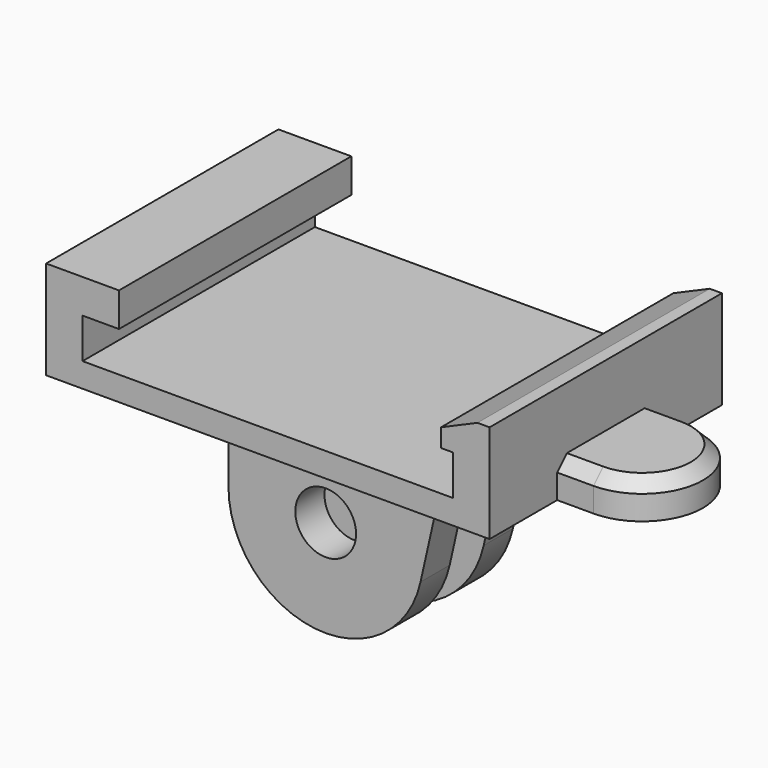
from build123d import *

# Parameters (mm, degrees)
F1_DEPTH = 11.95
F2_R     = 2.5
F3_DEPTH = 4.75
F4_W     = 3.5
F4_H     = 22
F5_DEPTH = 12.5
F6_W     = 3
F6_H     = 10
F7_DEPTH = 3
F8_SIZE  = 1


with BuildPart() as f1:
    # F0 (on Front) → F1 (new body, symmetric)
    with BuildSketch(Plane.XZ):
        Polygon((-15.25, 1.65), (-12.25, 1.65), (-12.25, 4.45), (-18.25, 4.45), (-18.25, -3.65), (18.25, -3.65), (18.25, 4.45), (17.25, 4.45), (14.25, 3.15), (14.25, 1.65), (15.25, 1.65), (15.25, -1.65), (-15.25, -1.65), align=None)
    extrude(amount=F1_DEPTH, both=True)

    # F2 (on Front) → F3 (join, symmetric)
    with BuildSketch(Plane.XZ):
        with BuildLine():
            Line((-9, -3.65), (-9, -11.65))
            ThreePointArc((-9, -11.65), (-1.883452, -19.60107), (6.804878, -13.406098))
            Line((6.804878, -13.406098), (9, -3.65))
            Line((9, -3.65), (-9, -3.65))
        make_face()
        with Locations((-1, -11.65)):
            Circle(F2_R, mode=Mode.SUBTRACT)
    extrude(amount=F3_DEPTH, both=True)

    # F4 (on Right) → F5 (cut, symmetric)
    with BuildSketch(Plane.YZ):
        with Locations((0, -14.65)):
            Rectangle(F4_W, F4_H)
    extrude(amount=F5_DEPTH, both=True, mode=Mode.SUBTRACT)

    # F6 (on face) → F7 (join)
    with BuildSketch(Plane(origin=(0, 0, -3.65), x_dir=(1, 0, 0), z_dir=(0, 0, -1))):
        with Locations((19.75, 0)):
            Rectangle(F6_W, F6_H)
        with BuildLine():
            Line((21.25, 5), (21.25, -5))
            ThreePointArc((21.25, -5), (26.25, 0), (21.25, 5))
        make_face()
    extrude(amount=-F7_DEPTH)

    # F8
    f8_edges = [f1.edges().sort_by_distance(p)[0] for p in [
        (26.25, 0, -0.65),
    ]]
    chamfer(f8_edges, length=F8_SIZE)


solid = f1.part
